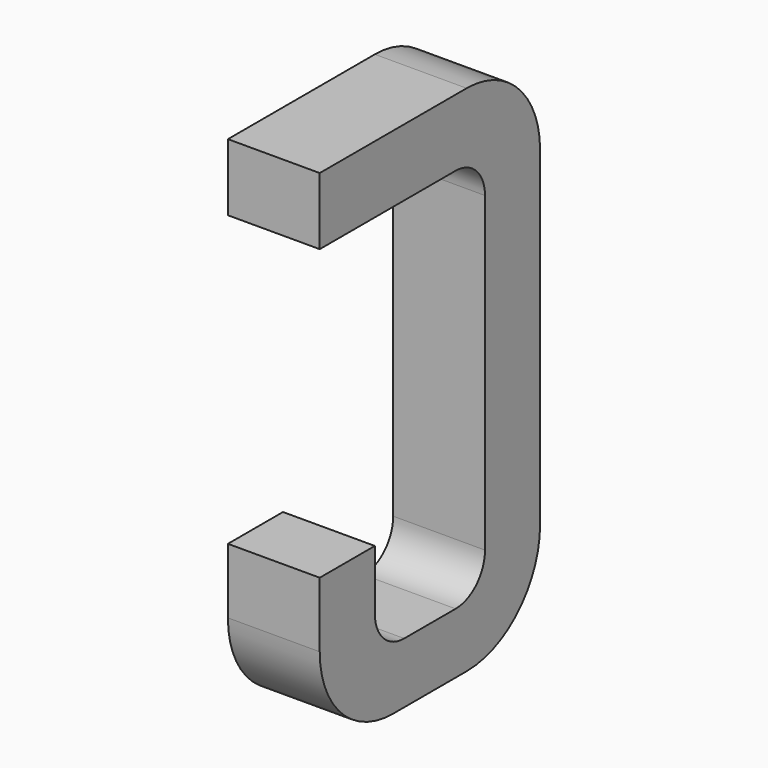
from build123d import *

# Parameters (mm, degrees)
BOX114_W     = 0.5
BOX114_H     = 1.5
BOX114_DEPTH = 2.795
FILLET277_R  = 0.5
FILLET280_R  = 0.5
FILLET276_R  = 0.5
BOX104_W     = 0.75
BOX104_H     = 2.1
BOX104_DEPTH = 1
FILLET278_R  = 0.2
FILLET281_R  = 0.2
FILLET272_R  = 0.2
FILLET275_R  = 0.2
BOX131_W     = 1
BOX131_H     = 1.575
BOX131_DEPTH = 3


with BuildPart() as part:
    # Box114 → Box114 (join)
    with BuildSketch(Plane(origin=(-0.25, 11.125, 0), x_dir=(1, 0, 0), z_dir=(0, 0, 1))):
        with Locations((0.25, 0.75)):
            Rectangle(BOX114_W, BOX114_H)
    extrude(amount=BOX114_DEPTH)

    # Fillet277
    fillet277_edges = [part.edges().sort_by_distance(p)[0] for p in [
        (0, 12.625, 0),
    ]]
    fillet(fillet277_edges, radius=FILLET277_R)

    # Fillet280
    fillet280_edges = [part.edges().sort_by_distance(p)[0] for p in [
        (0, 12.625, 2.795),
    ]]
    fillet(fillet280_edges, radius=FILLET280_R)

    # Fillet276
    fillet276_edges = [part.edges().sort_by_distance(p)[0] for p in [
        (0, 11.125, 0),
    ]]
    fillet(fillet276_edges, radius=FILLET276_R)

    # Box104 → Box104 (cut)
    with BuildSketch(Plane(origin=(-0.5, 11.5, 0.33), x_dir=(0, 1, 0), z_dir=(1, 0, 0))):
        with Locations((0.375, 1.05)):
            Rectangle(BOX104_W, BOX104_H)
    extrude(amount=BOX104_DEPTH, mode=Mode.SUBTRACT)

    # Fillet278
    fillet278_edges = [part.edges().sort_by_distance(p)[0] for p in [
        (0, 11.5, 0.33),
    ]]
    fillet(fillet278_edges, radius=FILLET278_R)

    # Fillet281
    fillet281_edges = [part.edges().sort_by_distance(p)[0] for p in [
        (0, 12.25, 0.33),
    ]]
    fillet(fillet281_edges, radius=FILLET281_R)

    # Fillet272
    fillet272_edges = [part.edges().sort_by_distance(p)[0] for p in [
        (0, 11.5, 2.43),
    ]]
    fillet(fillet272_edges, radius=FILLET272_R)

    # Fillet275
    fillet275_edges = [part.edges().sort_by_distance(p)[0] for p in [
        (0, 12.25, 2.43),
    ]]
    fillet(fillet275_edges, radius=FILLET275_R)

    # Box131 → Box131 (cut)
    with BuildSketch(Plane(origin=(-1, 11, 0.855), x_dir=(0, 1, 0), z_dir=(1, 0, 0))):
        with Locations((0.5, 0.7875)):
            Rectangle(BOX131_W, BOX131_H)
    extrude(amount=BOX131_DEPTH, mode=Mode.SUBTRACT)


solid = part.part
